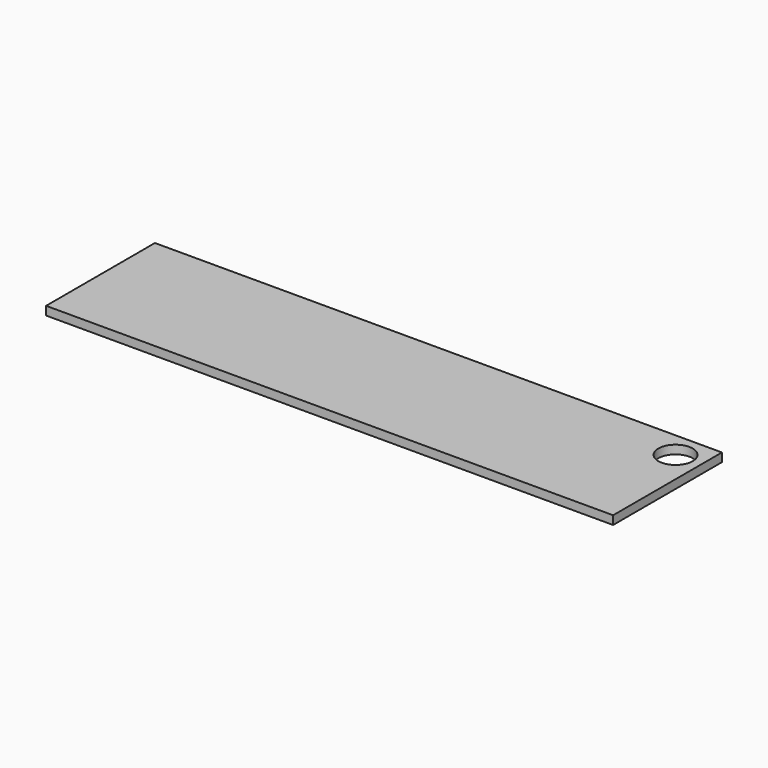
from build123d import *

# Parameters (mm, degrees)
F0_W     = 1257.3
F0_H     = 301.625
F1_DEPTH = 19.05
F2_R     = 38.1
F3_DEPTH = 19.051


with BuildPart() as f1:
    # F0 (on Top) → F1 (new body)
    with BuildSketch(Plane.XY):
        with Locations((628.65, 150.8125)):
            Rectangle(F0_W, F0_H)
    extrude(amount=F1_DEPTH)

    # F2 (on face) → F3 (cut, through all)
    with BuildSketch(Plane(origin=(0, 0, 0), x_dir=(1, 0, 0), z_dir=(0, 0, -1))):
        with Locations((1200.15, -244.475)):
            Circle(F2_R)
    extrude(amount=-F3_DEPTH, mode=Mode.SUBTRACT)


solid = f1.part
